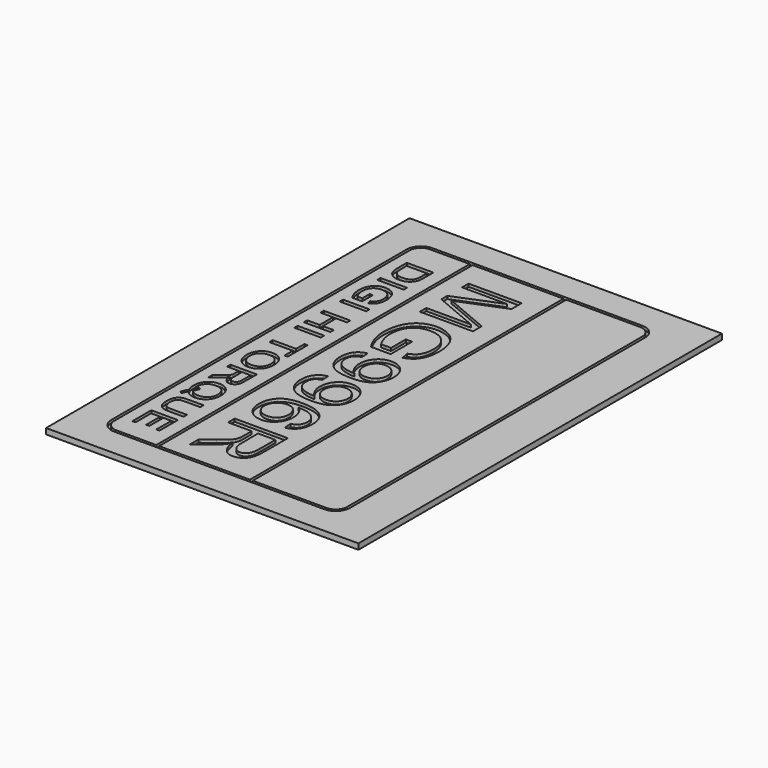
from build123d import *

# Parameters (mm, degrees)
SKETCH016_W             = 16
SKETCH016_H             = 11
PAD011_DEPTH            = 0.2
SKETCH017_W             = 13.8
SKETCH017_H             = 3.2
POCKET004_DEPTH         = 0.1
POCKET005_DEPTH         = 0.1
POCKET006_DEPTH         = 0.1
BODY001_PLACEMENT_ANGLE = 90


with BuildPart() as part:
    # Sketch016 → Pad011 (new body)
    with BuildSketch(Plane.XY):
        with Locations((0, 5.5)):
            Rectangle(SKETCH016_W, SKETCH016_H)
    extrude(amount=PAD011_DEPTH)

    # Sketch017 (on Face6 of Pad011) → Pocket004 (cut)
    with BuildSketch(Plane.XY.offset(0.2)):
        with BuildLine():
            Line((-6.5, 9.5), (6.5, 9.5))
            ThreePointArc((7, 9), (6.853553, 9.353553), (6.5, 9.5))
            Line((7, 9), (7, 1.6))
            ThreePointArc((6.5, 1.1), (6.853553, 1.246447), (7, 1.6))
            Line((6.5, 1.1), (-6.5, 1.1))
            ThreePointArc((-7, 1.6), (-6.853553, 1.246447), (-6.5, 1.1))
            Line((-7, 1.6), (-7, 9))
            ThreePointArc((-6.5, 9.5), (-6.853553, 9.353553), (-7, 9))
        make_face()
        with BuildLine():
            Line((-6.5, 9.4), (6.5, 9.4))
            ThreePointArc((6.9, 9), (6.782843, 9.282843), (6.5, 9.4))
            Line((6.9, 9), (6.9, 6.4))
            Line((6.9, 6.4), (-6.9, 6.4))
            Line((-6.9, 6.4), (-6.9, 9))
            ThreePointArc((-6.5, 9.4), (-6.782843, 9.282843), (-6.9, 9))
        make_face(mode=Mode.SUBTRACT)
        with Locations((0, 4.7)):
            Rectangle(SKETCH017_W, SKETCH017_H, mode=Mode.SUBTRACT)
        with BuildLine():
            Line((-6.9, 3), (6.9, 3))
            Line((6.9, 3), (6.9, 1.6))
            ThreePointArc((6.5, 1.2), (6.782843, 1.317157), (6.9, 1.6))
            Line((6.5, 1.2), (-6.5, 1.2))
            ThreePointArc((-6.9, 1.6), (-6.782843, 1.317157), (-6.5, 1.2))
            Line((-6.9, 1.6), (-6.9, 3))
        make_face(mode=Mode.SUBTRACT)
    extrude(amount=-POCKET004_DEPTH, mode=Mode.SUBTRACT)

    # Clone2D → Pocket005 (cut)
    with BuildSketch(Plane(origin=(-6.2, 3.7, 0.2), x_dir=(1, 0, 0), z_dir=(0, 0, 1))):
        with BuildLine():
            add(Edge.make_bspline(
                [(0.22828, 0), (0.22828, 1.869724)],
                knots=[0, 0, 1.869724, 1.869724], degree=1))
            add(Edge.make_bspline(
                [(0.22828, 1.869724), (0.673427, 1.869724)],
                knots=[0, 0, 0.370955, 0.370955], degree=1))
            add(Edge.make_bspline(
                [(0.673427, 1.869724), (1.206624, 0.547431)],
                knots=[0, 0, 1.394951, 1.394951], degree=1))
            add(Edge.make_bspline(
                [(1.206624, 0.547431), (1.280408, 0.362718), (1.314242, 0.270998)],
                knots=[0, 0, 0, 1, 1, 1], degree=2))
            add(Edge.make_bspline(
                [(1.314242, 0.270998), (1.353376, 0.372909), (1.436433, 0.570361)],
                knots=[0, 0, 0, 1, 1, 1], degree=2))
            add(Edge.make_bspline(
                [(1.436433, 0.570361), (1.986242, 1.869724)],
                knots=[0, 0, 1.377776, 1.377776], degree=1))
            add(Edge.make_bspline(
                [(1.986242, 1.869724), (2.374115, 1.869724)],
                knots=[0, 0, 0.323227, 0.323227], degree=1))
            add(Edge.make_bspline(
                [(2.374115, 1.869724), (2.374115, 0)],
                knots=[0, 0, 1.869724, 1.869724], degree=1))
            add(Edge.make_bspline(
                [(2.374115, 0), (2.087134, 0)],
                knots=[0, 0, 0.239151, 0.239151], degree=1))
            add(Edge.make_bspline(
                [(2.087134, 0), (2.087134, 1.56535)],
                knots=[0, 0, 1.56535, 1.56535], degree=1))
            add(Edge.make_bspline(
                [(2.087134, 1.56535), (1.423389, 0)],
                knots=[0, 0, 1.6602, 1.6602], degree=1))
            add(Edge.make_bspline(
                [(1.423389, 0), (1.164127, 0)],
                knots=[0, 0, 0.216051, 0.216051], degree=1))
            add(Edge.make_bspline(
                [(1.164127, 0), (0.515261, 1.587091)],
                knots=[0, 0, 1.676675, 1.676675], degree=1))
            add(Edge.make_bspline(
                [(0.515261, 1.587091), (0.515261, 0)],
                knots=[0, 0, 1.587091, 1.587091], degree=1))
            add(Edge.make_bspline(
                [(0.515261, 0), (0.22828, 0)],
                knots=[0, 0, 0.239151, 0.239151], degree=1))
        make_face()
        with BuildLine():
            add(Edge.make_bspline(
                [(3.900331, 0.728323), (3.900331, 0.951168)],
                knots=[0, 0, 0.222845, 0.222845], degree=1))
            add(Edge.make_bspline(
                [(3.900331, 0.951168), (4.846064, 0.951168)],
                knots=[0, 0, 0.78811, 0.78811], degree=1))
            add(Edge.make_bspline(
                [(4.846064, 0.951168), (4.846064, 0.258854)],
                knots=[0, 0, 0.692314, 0.692314], degree=1))
            add(Edge.make_bspline(
                [(4.846064, 0.258854), (4.627975, 0.113715), (4.396229, 0.04051)],
                knots=[0, 0, 0, 1, 1, 1], degree=2))
            add(Edge.make_bspline(
                [(4.396229, 0.04051), (4.164484, -0.032611), (3.92051, -0.032611)],
                knots=[0, 0, 0, 1, 1, 1], degree=2))
            add(Edge.make_bspline(
                [(3.92051, -0.032611), (3.591236, -0.032611), (3.322089, 0.085435)],
                knots=[0, 0, 0, 1, 1, 1], degree=2))
            add(Edge.make_bspline(
                [(3.322089, 0.085435), (3.052943, 0.203482), (2.915669, 0.426837)],
                knots=[0, 0, 0, 1, 1, 1], degree=2))
            add(Edge.make_bspline(
                [(2.915669, 0.426837), (2.778497, 0.650276), (2.778497, 0.925945)],
                knots=[0, 0, 0, 1, 1, 1], degree=2))
            add(Edge.make_bspline(
                [(2.778497, 0.925945), (2.778497, 1.199066), (2.914955, 1.435839)],
                knots=[0, 0, 0, 1, 1, 1], degree=2))
            add(Edge.make_bspline(
                [(2.914955, 1.435839), (3.051414, 1.672611), (3.307516, 1.787431)],
                knots=[0, 0, 0, 1, 1, 1], degree=2))
            add(Edge.make_bspline(
                [(3.307516, 1.787431), (3.563618, 1.902335), (3.897478, 1.902335)],
                knots=[0, 0, 0, 1, 1, 1], degree=2))
            add(Edge.make_bspline(
                [(3.897478, 1.902335), (4.139822, 1.902335), (4.335694, 1.836433)],
                knots=[0, 0, 0, 1, 1, 1], degree=2))
            add(Edge.make_bspline(
                [(4.335694, 1.836433), (4.531669, 1.770531), (4.642955, 1.652824)],
                knots=[0, 0, 0, 1, 1, 1], degree=2))
            add(Edge.make_bspline(
                [(4.642955, 1.652824), (4.754242, 1.535117), (4.812127, 1.345732)],
                knots=[0, 0, 0, 1, 1, 1], degree=2))
            add(Edge.make_bspline(
                [(4.812127, 1.345732), (4.541962, 1.284586)],
                knots=[0, 0, 0.233294, 0.233294], degree=1))
            add(Edge.make_bspline(
                [(4.541962, 1.284586), (4.491822, 1.427686), (4.417325, 1.509639)],
                knots=[0, 0, 0, 1, 1, 1], degree=2))
            add(Edge.make_bspline(
                [(4.417325, 1.509639), (4.34293, 1.591677), (4.204637, 1.641019)],
                knots=[0, 0, 0, 1, 1, 1], degree=2))
            add(Edge.make_bspline(
                [(4.204637, 1.641019), (4.066446, 1.690361), (3.897783, 1.690361)],
                knots=[0, 0, 0, 1, 1, 1], degree=2))
            add(Edge.make_bspline(
                [(3.897783, 1.690361), (3.695796, 1.690361), (3.548433, 1.638641)],
                knots=[0, 0, 0, 1, 1, 1], degree=2))
            add(Edge.make_bspline(
                [(3.548433, 1.638641), (3.40107, 1.586921), (3.310675, 1.502675)],
                knots=[0, 0, 0, 1, 1, 1], degree=2))
            add(Edge.make_bspline(
                [(3.310675, 1.502675), (3.22028, 1.418429), (3.17014, 1.317537)],
                knots=[0, 0, 0, 1, 1, 1], degree=2))
            add(Edge.make_bspline(
                [(3.17014, 1.317537), (3.085045, 1.143949), (3.085045, 0.940977)],
                knots=[0, 0, 0, 1, 1, 1], degree=2))
            add(Edge.make_bspline(
                [(3.085045, 0.940977), (3.085045, 0.690701), (3.187567, 0.522123)],
                knots=[0, 0, 0, 1, 1, 1], degree=2))
            add(Edge.make_bspline(
                [(3.187567, 0.522123), (3.290089, 0.353631), (3.486064, 0.271932)],
                knots=[0, 0, 0, 1, 1, 1], degree=2))
            add(Edge.make_bspline(
                [(3.486064, 0.271932), (3.682038, 0.190234), (3.902369, 0.190234)],
                knots=[0, 0, 0, 1, 1, 1], degree=2))
            add(Edge.make_bspline(
                [(3.902369, 0.190234), (4.093758, 0.190234), (4.276076, 0.251635)],
                knots=[0, 0, 0, 1, 1, 1], degree=2))
            add(Edge.make_bspline(
                [(4.276076, 0.251635), (4.458395, 0.313036), (4.552561, 0.382675)],
                knots=[0, 0, 0, 1, 1, 1], degree=2))
            add(Edge.make_bspline(
                [(4.552561, 0.382675), (4.552561, 0.728323)],
                knots=[0, 0, 0.345648, 0.345648], degree=1))
            add(Edge.make_bspline(
                [(4.552561, 0.728323), (3.900331, 0.728323)],
                knots=[0, 0, 0.543524, 0.543524], degree=1))
        make_face()
        with BuildLine():
            add(Edge.make_bspline(
                [(5.211312, 0.429384), (5.478726, 0.44569)],
                knots=[0, 0, 0.223441, 0.223441], degree=1))
            add(Edge.make_bspline(
                [(5.478726, 0.44569), (5.511847, 0.294183), (5.605299, 0.225902)],
                knots=[0, 0, 0, 1, 1, 1], degree=2))
            add(Edge.make_bspline(
                [(5.605299, 0.225902), (5.698854, 0.157622), (5.845096, 0.157622)],
                knots=[0, 0, 0, 1, 1, 1], degree=2))
            add(Edge.make_bspline(
                [(5.845096, 0.157622), (5.970242, 0.157622), (6.066038, 0.2062)],
                knots=[0, 0, 0, 1, 1, 1], degree=2))
            add(Edge.make_bspline(
                [(6.066038, 0.2062), (6.161936, 0.254777), (6.220637, 0.335966)],
                knots=[0, 0, 0, 1, 1, 1], degree=2))
            add(Edge.make_bspline(
                [(6.220637, 0.335966), (6.279338, 0.41724), (6.32, 0.555244)],
                knots=[0, 0, 0, 1, 1, 1], degree=2))
            add(Edge.make_bspline(
                [(6.32, 0.555244), (6.360764, 0.693248), (6.360764, 0.835924)],
                knots=[0, 0, 0, 1, 1, 1], degree=2))
            add(Edge.make_bspline(
                [(6.360764, 0.835924), (6.360764, 0.85121), (6.359236, 0.881783)],
                knots=[0, 0, 0, 1, 1, 1], degree=2))
            add(Edge.make_bspline(
                [(6.359236, 0.881783), (6.277503, 0.772229), (6.135847, 0.704034)],
                knots=[0, 0, 0, 1, 1, 1], degree=2))
            add(Edge.make_bspline(
                [(6.135847, 0.704034), (5.994293, 0.635924), (5.829299, 0.635924)],
                knots=[0, 0, 0, 1, 1, 1], degree=2))
            add(Edge.make_bspline(
                [(5.829299, 0.635924), (5.553732, 0.635924), (5.362955, 0.804416)],
                knots=[0, 0, 0, 1, 1, 1], degree=2))
            add(Edge.make_bspline(
                [(5.362955, 0.804416), (5.172178, 0.972909), (5.172178, 1.248662)],
                knots=[0, 0, 0, 1, 1, 1], degree=2))
            add(Edge.make_bspline(
                [(5.172178, 1.248662), (5.172178, 1.533333), (5.372331, 1.706921)],
                knots=[0, 0, 0, 1, 1, 1], degree=2))
            add(Edge.make_bspline(
                [(5.372331, 1.706921), (5.572586, 1.880594), (5.873936, 1.880594)],
                knots=[0, 0, 0, 1, 1, 1], degree=2))
            add(Edge.make_bspline(
                [(5.873936, 1.880594), (6.091618, 1.880594), (6.272, 1.782166)],
                knots=[0, 0, 0, 1, 1, 1], degree=2))
            add(Edge.make_bspline(
                [(6.272, 1.782166), (6.452484, 1.683737), (6.546038, 1.501656)],
                knots=[0, 0, 0, 1, 1, 1], degree=2))
            add(Edge.make_bspline(
                [(6.546038, 1.501656), (6.639694, 1.319575), (6.639694, 0.974437)],
                knots=[0, 0, 0, 1, 1, 1], degree=2))
            add(Edge.make_bspline(
                [(6.639694, 0.974437), (6.639694, 0.615372), (6.54665, 0.402548)],
                knots=[0, 0, 0, 1, 1, 1], degree=2))
            add(Edge.make_bspline(
                [(6.54665, 0.402548), (6.453707, 0.189724), (6.269962, 0.078556)],
                knots=[0, 0, 0, 1, 1, 1], degree=2))
            add(Edge.make_bspline(
                [(6.269962, 0.078556), (6.086318, -0.032611), (5.839389, -0.032611)],
                knots=[0, 0, 0, 1, 1, 1], degree=2))
            add(Edge.make_bspline(
                [(5.839389, -0.032611), (5.577172, -0.032611), (5.410955, 0.088577)],
                knots=[0, 0, 0, 1, 1, 1], degree=2))
            add(Edge.make_bspline(
                [(5.410955, 0.088577), (5.244841, 0.209851), (5.211312, 0.429384)],
                knots=[0, 0, 0, 1, 1, 1], degree=2))
        make_face()
        with BuildLine():
            add(Edge.make_bspline(
                [(6.333146, 1.259193), (6.333146, 1.457495), (6.209325, 1.573928)],
                knots=[0, 0, 0, 1, 1, 1], degree=2))
            add(Edge.make_bspline(
                [(6.209325, 1.573928), (6.085503, 1.690361), (5.905834, 1.690361)],
                knots=[0, 0, 0, 1, 1, 1], degree=2))
            add(Edge.make_bspline(
                [(5.905834, 1.690361), (5.720051, 1.690361), (5.586344, 1.564926)],
                knots=[0, 0, 0, 1, 1, 1], degree=2))
            add(Edge.make_bspline(
                [(5.586344, 1.564926), (5.452637, 1.439575), (5.452637, 1.24)],
                knots=[0, 0, 0, 1, 1, 1], degree=2))
            add(Edge.make_bspline(
                [(5.452637, 1.24), (5.452637, 1.060892), (5.579516, 0.94896)],
                knots=[0, 0, 0, 1, 1, 1], degree=2))
            add(Edge.make_bspline(
                [(5.579516, 0.94896), (5.706395, 0.837028), (5.898191, 0.837028)],
                knots=[0, 0, 0, 1, 1, 1], degree=2))
            add(Edge.make_bspline(
                [(5.898191, 0.837028), (6.088357, 0.837028), (6.210752, 0.94896)],
                knots=[0, 0, 0, 1, 1, 1], degree=2))
            add(Edge.make_bspline(
                [(6.210752, 0.94896), (6.333146, 1.060892), (6.333146, 1.259193)],
                knots=[0, 0, 0, 1, 1, 1], degree=2))
        make_face(mode=Mode.SUBTRACT)
        with BuildLine():
            add(Edge.make_bspline(
                [(6.952764, 0.429384), (7.220178, 0.44569)],
                knots=[0, 0, 0.223441, 0.223441], degree=1))
            add(Edge.make_bspline(
                [(7.220178, 0.44569), (7.253299, 0.294183), (7.346752, 0.225902)],
                knots=[0, 0, 0, 1, 1, 1], degree=2))
            add(Edge.make_bspline(
                [(7.346752, 0.225902), (7.440306, 0.157622), (7.586548, 0.157622)],
                knots=[0, 0, 0, 1, 1, 1], degree=2))
            add(Edge.make_bspline(
                [(7.586548, 0.157622), (7.711694, 0.157622), (7.80749, 0.2062)],
                knots=[0, 0, 0, 1, 1, 1], degree=2))
            add(Edge.make_bspline(
                [(7.80749, 0.2062), (7.903389, 0.254777), (7.962089, 0.335966)],
                knots=[0, 0, 0, 1, 1, 1], degree=2))
            add(Edge.make_bspline(
                [(7.962089, 0.335966), (8.02079, 0.41724), (8.061452, 0.555244)],
                knots=[0, 0, 0, 1, 1, 1], degree=2))
            add(Edge.make_bspline(
                [(8.061452, 0.555244), (8.102217, 0.693248), (8.102217, 0.835924)],
                knots=[0, 0, 0, 1, 1, 1], degree=2))
            add(Edge.make_bspline(
                [(8.102217, 0.835924), (8.102217, 0.85121), (8.100688, 0.881783)],
                knots=[0, 0, 0, 1, 1, 1], degree=2))
            add(Edge.make_bspline(
                [(8.100688, 0.881783), (8.018955, 0.772229), (7.877299, 0.704034)],
                knots=[0, 0, 0, 1, 1, 1], degree=2))
            add(Edge.make_bspline(
                [(7.877299, 0.704034), (7.735745, 0.635924), (7.570752, 0.635924)],
                knots=[0, 0, 0, 1, 1, 1], degree=2))
            add(Edge.make_bspline(
                [(7.570752, 0.635924), (7.295185, 0.635924), (7.104408, 0.804416)],
                knots=[0, 0, 0, 1, 1, 1], degree=2))
            add(Edge.make_bspline(
                [(7.104408, 0.804416), (6.913631, 0.972909), (6.913631, 1.248662)],
                knots=[0, 0, 0, 1, 1, 1], degree=2))
            add(Edge.make_bspline(
                [(6.913631, 1.248662), (6.913631, 1.533333), (7.113783, 1.706921)],
                knots=[0, 0, 0, 1, 1, 1], degree=2))
            add(Edge.make_bspline(
                [(7.113783, 1.706921), (7.314038, 1.880594), (7.615389, 1.880594)],
                knots=[0, 0, 0, 1, 1, 1], degree=2))
            add(Edge.make_bspline(
                [(7.615389, 1.880594), (7.83307, 1.880594), (8.013452, 1.782166)],
                knots=[0, 0, 0, 1, 1, 1], degree=2))
            add(Edge.make_bspline(
                [(8.013452, 1.782166), (8.193936, 1.683737), (8.28749, 1.501656)],
                knots=[0, 0, 0, 1, 1, 1], degree=2))
            add(Edge.make_bspline(
                [(8.28749, 1.501656), (8.381146, 1.319575), (8.381146, 0.974437)],
                knots=[0, 0, 0, 1, 1, 1], degree=2))
            add(Edge.make_bspline(
                [(8.381146, 0.974437), (8.381146, 0.615372), (8.288102, 0.402548)],
                knots=[0, 0, 0, 1, 1, 1], degree=2))
            add(Edge.make_bspline(
                [(8.288102, 0.402548), (8.195159, 0.189724), (8.011414, 0.078556)],
                knots=[0, 0, 0, 1, 1, 1], degree=2))
            add(Edge.make_bspline(
                [(8.011414, 0.078556), (7.827771, -0.032611), (7.580841, -0.032611)],
                knots=[0, 0, 0, 1, 1, 1], degree=2))
            add(Edge.make_bspline(
                [(7.580841, -0.032611), (7.318624, -0.032611), (7.152408, 0.088577)],
                knots=[0, 0, 0, 1, 1, 1], degree=2))
            add(Edge.make_bspline(
                [(7.152408, 0.088577), (6.986293, 0.209851), (6.952764, 0.429384)],
                knots=[0, 0, 0, 1, 1, 1], degree=2))
        make_face()
        with BuildLine():
            add(Edge.make_bspline(
                [(8.074599, 1.259193), (8.074599, 1.457495), (7.950777, 1.573928)],
                knots=[0, 0, 0, 1, 1, 1], degree=2))
            add(Edge.make_bspline(
                [(7.950777, 1.573928), (7.826955, 1.690361), (7.647287, 1.690361)],
                knots=[0, 0, 0, 1, 1, 1], degree=2))
            add(Edge.make_bspline(
                [(7.647287, 1.690361), (7.461503, 1.690361), (7.327796, 1.564926)],
                knots=[0, 0, 0, 1, 1, 1], degree=2))
            add(Edge.make_bspline(
                [(7.327796, 1.564926), (7.194089, 1.439575), (7.194089, 1.24)],
                knots=[0, 0, 0, 1, 1, 1], degree=2))
            add(Edge.make_bspline(
                [(7.194089, 1.24), (7.194089, 1.060892), (7.320968, 0.94896)],
                knots=[0, 0, 0, 1, 1, 1], degree=2))
            add(Edge.make_bspline(
                [(7.320968, 0.94896), (7.447847, 0.837028), (7.639643, 0.837028)],
                knots=[0, 0, 0, 1, 1, 1], degree=2))
            add(Edge.make_bspline(
                [(7.639643, 0.837028), (7.829809, 0.837028), (7.952204, 0.94896)],
                knots=[0, 0, 0, 1, 1, 1], degree=2))
            add(Edge.make_bspline(
                [(7.952204, 0.94896), (8.074599, 1.060892), (8.074599, 1.259193)],
                knots=[0, 0, 0, 1, 1, 1], degree=2))
        make_face(mode=Mode.SUBTRACT)
        with BuildLine():
            add(Edge.make_bspline(
                [(10.083465, 1.413163), (9.809529, 1.396858)],
                knots=[0, 0, 0.228862, 0.228862], degree=1))
            add(Edge.make_bspline(
                [(9.809529, 1.396858), (9.772841, 1.53155), (9.705478, 1.592527)],
                knots=[0, 0, 0, 1, 1, 1], degree=2))
            add(Edge.make_bspline(
                [(9.705478, 1.592527), (9.593783, 1.690361), (9.430115, 1.690361)],
                knots=[0, 0, 0, 1, 1, 1], degree=2))
            add(Edge.make_bspline(
                [(9.430115, 1.690361), (9.298446, 1.690361), (9.195822, 1.629469)],
                knots=[0, 0, 0, 1, 1, 1], degree=2))
            add(Edge.make_bspline(
                [(9.195822, 1.629469), (9.068943, 1.550913), (8.993936, 1.4)],
                knots=[0, 0, 0, 1, 1, 1], degree=2))
            add(Edge.make_bspline(
                [(8.993936, 1.4), (8.919032, 1.249172), (8.915975, 0.969087)],
                knots=[0, 0, 0, 1, 1, 1], degree=2))
            add(Edge.make_bspline(
                [(8.915975, 0.969087), (9.015338, 1.095202), (9.159134, 1.156348)],
                knots=[0, 0, 0, 1, 1, 1], degree=2))
            add(Edge.make_bspline(
                [(9.159134, 1.156348), (9.30293, 1.217495), (9.460382, 1.217495)],
                knots=[0, 0, 0, 1, 1, 1], degree=2))
            add(Edge.make_bspline(
                [(9.460382, 1.217495), (9.735643, 1.217495), (9.92907, 1.047728)],
                knots=[0, 0, 0, 1, 1, 1], degree=2))
            add(Edge.make_bspline(
                [(9.92907, 1.047728), (10.122599, 0.878047), (10.122599, 0.609087)],
                knots=[0, 0, 0, 1, 1, 1], degree=2))
            add(Edge.make_bspline(
                [(10.122599, 0.609087), (10.122599, 0.432357), (10.031592, 0.28051)],
                knots=[0, 0, 0, 1, 1, 1], degree=2))
            add(Edge.make_bspline(
                [(10.031592, 0.28051), (9.940586, 0.128747), (9.781503, 0.048068)],
                knots=[0, 0, 0, 1, 1, 1], degree=2))
            add(Edge.make_bspline(
                [(9.781503, 0.048068), (9.62242, -0.032611), (9.420535, -0.032611)],
                knots=[0, 0, 0, 1, 1, 1], degree=2))
            add(Edge.make_bspline(
                [(9.420535, -0.032611), (9.076382, -0.032611), (8.85921, 0.178854)],
                knots=[0, 0, 0, 1, 1, 1], degree=2))
            add(Edge.make_bspline(
                [(8.85921, 0.178854), (8.642038, 0.390403), (8.642038, 0.876093)],
                knots=[0, 0, 0, 1, 1, 1], degree=2))
            add(Edge.make_bspline(
                [(8.642038, 0.876093), (8.642038, 1.419193), (8.882242, 1.665902)],
                knots=[0, 0, 0, 1, 1, 1], degree=2))
            add(Edge.make_bspline(
                [(8.882242, 1.665902), (9.091873, 1.880594), (9.44693, 1.880594)],
                knots=[0, 0, 0, 1, 1, 1], degree=2))
            add(Edge.make_bspline(
                [(9.44693, 1.880594), (9.711592, 1.880594), (9.880662, 1.756348)],
                knots=[0, 0, 0, 1, 1, 1], degree=2))
            add(Edge.make_bspline(
                [(9.880662, 1.756348), (10.049834, 1.632187), (10.083465, 1.413163)],
                knots=[0, 0, 0, 1, 1, 1], degree=2))
        make_face()
        with BuildLine():
            add(Edge.make_bspline(
                [(8.961631, 0.609512), (8.961631, 0.490106), (9.02186, 0.380977)],
                knots=[0, 0, 0, 1, 1, 1], degree=2))
            add(Edge.make_bspline(
                [(9.02186, 0.380977), (9.082191, 0.271847), (9.188892, 0.214692)],
                knots=[0, 0, 0, 1, 1, 1], degree=2))
            add(Edge.make_bspline(
                [(9.188892, 0.214692), (9.295592, 0.157622), (9.417885, 0.157622)],
                knots=[0, 0, 0, 1, 1, 1], degree=2))
            add(Edge.make_bspline(
                [(9.417885, 0.157622), (9.595108, 0.157622), (9.718624, 0.275669)],
                knots=[0, 0, 0, 1, 1, 1], degree=2))
            add(Edge.make_bspline(
                [(9.718624, 0.275669), (9.84214, 0.3938), (9.84214, 0.596603)],
                knots=[0, 0, 0, 1, 1, 1], degree=2))
            add(Edge.make_bspline(
                [(9.84214, 0.596603), (9.84214, 0.791762), (9.720153, 0.904034)],
                knots=[0, 0, 0, 1, 1, 1], degree=2))
            add(Edge.make_bspline(
                [(9.720153, 0.904034), (9.598166, 1.016391), (9.407185, 1.016391)],
                knots=[0, 0, 0, 1, 1, 1], degree=2))
            add(Edge.make_bspline(
                [(9.407185, 1.016391), (9.221096, 1.016391), (9.091363, 0.904034)],
                knots=[0, 0, 0, 1, 1, 1], degree=2))
            add(Edge.make_bspline(
                [(9.091363, 0.904034), (8.961631, 0.791762), (8.961631, 0.609512)],
                knots=[0, 0, 0, 1, 1, 1], degree=2))
        make_face(mode=Mode.SUBTRACT)
        with BuildLine():
            add(Edge.make_bspline(
                [(10.520459, 0), (10.520459, 1.869724)],
                knots=[0, 0, 1.869724, 1.869724], degree=1))
            add(Edge.make_bspline(
                [(10.520459, 1.869724), (11.510318, 1.869724)],
                knots=[0, 0, 0.824883, 0.824883], degree=1))
            add(Edge.make_bspline(
                [(11.510318, 1.869724), (11.809631, 1.869724), (11.965452, 1.819448)],
                knots=[0, 0, 0, 1, 1, 1], degree=2))
            add(Edge.make_bspline(
                [(11.965452, 1.819448), (12.121274, 1.769257), (12.21442, 1.642038)],
                knots=[0, 0, 0, 1, 1, 1], degree=2))
            add(Edge.make_bspline(
                [(12.21442, 1.642038), (12.307567, 1.51482), (12.307567, 1.360934)],
                knots=[0, 0, 0, 1, 1, 1], degree=2))
            add(Edge.make_bspline(
                [(12.307567, 1.360934), (12.307567, 1.162463), (12.153274, 1.026327)],
                knots=[0, 0, 0, 1, 1, 1], degree=2))
            add(Edge.make_bspline(
                [(12.153274, 1.026327), (11.999083, 0.890191), (11.676841, 0.853333)],
                knots=[0, 0, 0, 1, 1, 1], degree=2))
            add(Edge.make_bspline(
                [(11.676841, 0.853333), (11.794344, 0.805945), (11.855389, 0.759915)],
                knots=[0, 0, 0, 1, 1, 1], degree=2))
            add(Edge.make_bspline(
                [(11.855389, 0.759915), (11.985121, 0.660042), (12.100586, 0.510488)],
                knots=[0, 0, 0, 1, 1, 1], degree=2))
            add(Edge.make_bspline(
                [(12.100586, 0.510488), (12.488153, 0)],
                knots=[0, 0, 0.604077, 0.604077], degree=1))
            add(Edge.make_bspline(
                [(12.488153, 0), (12.118217, 0)],
                knots=[0, 0, 0.30828, 0.30828], degree=1))
            add(Edge.make_bspline(
                [(12.118217, 0), (11.821962, 0.390234)],
                knots=[0, 0, 0.46177, 0.46177], degree=1))
            add(Edge.make_bspline(
                [(11.821962, 0.390234), (11.692127, 0.559066), (11.608051, 0.648577)],
                knots=[0, 0, 0, 1, 1, 1], degree=2))
            add(Edge.make_bspline(
                [(11.608051, 0.648577), (11.524076, 0.738174), (11.457631, 0.773503)],
                knots=[0, 0, 0, 1, 1, 1], degree=2))
            add(Edge.make_bspline(
                [(11.457631, 0.773503), (11.391185, 0.808832), (11.322497, 0.82276)],
                knots=[0, 0, 0, 1, 1, 1], degree=2))
            add(Edge.make_bspline(
                [(11.322497, 0.82276), (11.272153, 0.831592), (11.157605, 0.831592)],
                knots=[0, 0, 0, 1, 1, 1], degree=2))
            add(Edge.make_bspline(
                [(11.157605, 0.831592), (10.813962, 0.831592)],
                knots=[0, 0, 0.286369, 0.286369], degree=1))
            add(Edge.make_bspline(
                [(10.813962, 0.831592), (10.813962, 0)],
                knots=[0, 0, 0.831592, 0.831592], degree=1))
            add(Edge.make_bspline(
                [(10.813962, 0), (10.520459, 0)],
                knots=[0, 0, 0.244586, 0.244586], degree=1))
        make_face()
        with BuildLine():
            add(Edge.make_bspline(
                [(10.813962, 1.054437), (11.450803, 1.054437)],
                knots=[0, 0, 0.530701, 0.530701], degree=1))
            add(Edge.make_bspline(
                [(11.450803, 1.054437), (11.653911, 1.054437), (11.768051, 1.088917)],
                knots=[0, 0, 0, 1, 1, 1], degree=2))
            add(Edge.make_bspline(
                [(11.768051, 1.088917), (11.882293, 1.123482), (11.941605, 1.199406)],
                knots=[0, 0, 0, 1, 1, 1], degree=2))
            add(Edge.make_bspline(
                [(11.941605, 1.199406), (12.001019, 1.275329), (12.001019, 1.364501)],
                knots=[0, 0, 0, 1, 1, 1], degree=2))
            add(Edge.make_bspline(
                [(12.001019, 1.364501), (12.001019, 1.495032), (11.885962, 1.579108)],
                knots=[0, 0, 0, 1, 1, 1], degree=2))
            add(Edge.make_bspline(
                [(11.885962, 1.579108), (11.770904, 1.663185), (11.522548, 1.663185)],
                knots=[0, 0, 0, 1, 1, 1], degree=2))
            add(Edge.make_bspline(
                [(11.522548, 1.663185), (10.813962, 1.663185)],
                knots=[0, 0, 0.590488, 0.590488], degree=1))
            add(Edge.make_bspline(
                [(10.813962, 1.663185), (10.813962, 1.054437)],
                knots=[0, 0, 0.608747, 0.608747], degree=1))
        make_face(mode=Mode.SUBTRACT)
    extrude(amount=-POCKET005_DEPTH, mode=Mode.SUBTRACT)

    # Clone2D001 → Pocket006 (cut)
    with BuildSketch(Plane.XY.offset(0.2)):
        with BuildLine():
            add(Edge.make_bspline(
                [(-5.879338, 1.6), (-5.879338, 2.534862)],
                knots=[0, 0, 0.934862, 0.934862], degree=1))
            add(Edge.make_bspline(
                [(-5.879338, 2.534862), (-5.493452, 2.534862)],
                knots=[0, 0, 0.321571, 0.321571], degree=1))
            add(Edge.make_bspline(
                [(-5.493452, 2.534862), (-5.362752, 2.534862), (-5.294013, 2.521486)],
                knots=[0, 0, 0, 1, 1, 1], degree=2))
            add(Edge.make_bspline(
                [(-5.294013, 2.521486), (-5.197707, 2.502972), (-5.129682, 2.454522)],
                knots=[0, 0, 0, 1, 1, 1], degree=2))
            add(Edge.make_bspline(
                [(-5.129682, 2.454522), (-5.04107, 2.392017), (-4.997146, 2.294777)],
                knots=[0, 0, 0, 1, 1, 1], degree=2))
            add(Edge.make_bspline(
                [(-4.997146, 2.294777), (-4.953172, 2.197537), (-4.953172, 2.072527)],
                knots=[0, 0, 0, 1, 1, 1], degree=2))
            add(Edge.make_bspline(
                [(-4.953172, 2.072527), (-4.953172, 1.96603), (-4.982981, 1.883779)],
                knots=[0, 0, 0, 1, 1, 1], degree=2))
            add(Edge.make_bspline(
                [(-4.982981, 1.883779), (-5.01279, 1.801529), (-5.059414, 1.747643)],
                knots=[0, 0, 0, 1, 1, 1], degree=2))
            add(Edge.make_bspline(
                [(-5.059414, 1.747643), (-5.105987, 1.693758), (-5.161427, 1.662803)],
                knots=[0, 0, 0, 1, 1, 1], degree=2))
            add(Edge.make_bspline(
                [(-5.161427, 1.662803), (-5.216815, 1.63189), (-5.295134, 1.615924)],
                knots=[0, 0, 0, 1, 1, 1], degree=2))
            add(Edge.make_bspline(
                [(-5.295134, 1.615924), (-5.373452, 1.6), (-5.475108, 1.6)],
                knots=[0, 0, 0, 1, 1, 1], degree=2))
            add(Edge.make_bspline(
                [(-5.475108, 1.6), (-5.879338, 1.6)],
                knots=[0, 0, 0.336858, 0.336858], degree=1))
        make_face()
        with BuildLine():
            add(Edge.make_bspline(
                [(-5.732586, 1.711423), (-5.492994, 1.711423)],
                knots=[0, 0, 0.19966, 0.19966], degree=1))
            add(Edge.make_bspline(
                [(-5.492994, 1.711423), (-5.382013, 1.711423), (-5.318879, 1.728577)],
                knots=[0, 0, 0, 1, 1, 1], degree=2))
            add(Edge.make_bspline(
                [(-5.318879, 1.728577), (-5.255694, 1.745732), (-5.218191, 1.7769)],
                knots=[0, 0, 0, 1, 1, 1], degree=2))
            add(Edge.make_bspline(
                [(-5.218191, 1.7769), (-5.165401, 1.820764), (-5.135949, 1.89482)],
                knots=[0, 0, 0, 1, 1, 1], degree=2))
            add(Edge.make_bspline(
                [(-5.135949, 1.89482), (-5.106446, 1.968875), (-5.106446, 2.074437)],
                knots=[0, 0, 0, 1, 1, 1], degree=2))
            add(Edge.make_bspline(
                [(-5.106446, 2.074437), (-5.106446, 2.220637), (-5.164229, 2.299151)],
                knots=[0, 0, 0, 1, 1, 1], degree=2))
            add(Edge.make_bspline(
                [(-5.164229, 2.299151), (-5.222013, 2.377665), (-5.304713, 2.404374)],
                knots=[0, 0, 0, 1, 1, 1], degree=2))
            add(Edge.make_bspline(
                [(-5.304713, 2.404374), (-5.364382, 2.423439), (-5.496815, 2.423439)],
                knots=[0, 0, 0, 1, 1, 1], degree=2))
            add(Edge.make_bspline(
                [(-5.496815, 2.423439), (-5.732586, 2.423439)],
                knots=[0, 0, 0.196476, 0.196476], degree=1))
            add(Edge.make_bspline(
                [(-5.732586, 2.423439), (-5.732586, 1.711423)],
                knots=[0, 0, 0.712017, 0.712017], degree=1))
        make_face(mode=Mode.SUBTRACT)
        with BuildLine():
            add(Edge.make_bspline(
                [(-4.721631, 1.6), (-4.721631, 2.534862)],
                knots=[0, 0, 0.934862, 0.934862], degree=1))
            add(Edge.make_bspline(
                [(-4.721631, 2.534862), (-4.574879, 2.534862)],
                knots=[0, 0, 0.122293, 0.122293], degree=1))
            add(Edge.make_bspline(
                [(-4.574879, 2.534862), (-4.574879, 1.6)],
                knots=[0, 0, 0.934862, 0.934862], degree=1))
            add(Edge.make_bspline(
                [(-4.574879, 1.6), (-4.721631, 1.6)],
                knots=[0, 0, 0.122293, 0.122293], degree=1))
        make_face()
        with BuildLine():
            add(Edge.make_bspline(
                [(-3.788943, 1.964161), (-3.788943, 2.075584)],
                knots=[0, 0, 0.111423, 0.111423], degree=1))
            add(Edge.make_bspline(
                [(-3.788943, 2.075584), (-3.316076, 2.075584)],
                knots=[0, 0, 0.394055, 0.394055], degree=1))
            add(Edge.make_bspline(
                [(-3.316076, 2.075584), (-3.316076, 1.729427)],
                knots=[0, 0, 0.346157, 0.346157], degree=1))
            add(Edge.make_bspline(
                [(-3.316076, 1.729427), (-3.425121, 1.656858), (-3.540994, 1.620255)],
                knots=[0, 0, 0, 1, 1, 1], degree=2))
            add(Edge.make_bspline(
                [(-3.540994, 1.620255), (-3.656866, 1.583694), (-3.778854, 1.583694)],
                knots=[0, 0, 0, 1, 1, 1], degree=2))
            add(Edge.make_bspline(
                [(-3.778854, 1.583694), (-3.94349, 1.583694), (-4.078064, 1.642718)],
                knots=[0, 0, 0, 1, 1, 1], degree=2))
            add(Edge.make_bspline(
                [(-4.078064, 1.642718), (-4.212637, 1.701741), (-4.281274, 1.813418)],
                knots=[0, 0, 0, 1, 1, 1], degree=2))
            add(Edge.make_bspline(
                [(-4.281274, 1.813418), (-4.34986, 1.925138), (-4.34986, 2.062972)],
                knots=[0, 0, 0, 1, 1, 1], degree=2))
            add(Edge.make_bspline(
                [(-4.34986, 2.062972), (-4.34986, 2.199533), (-4.281631, 2.317919)],
                knots=[0, 0, 0, 1, 1, 1], degree=2))
            add(Edge.make_bspline(
                [(-4.281631, 2.317919), (-4.213401, 2.436306), (-4.08535, 2.493715)],
                knots=[0, 0, 0, 1, 1, 1], degree=2))
            add(Edge.make_bspline(
                [(-4.08535, 2.493715), (-3.957299, 2.551168), (-3.790369, 2.551168)],
                knots=[0, 0, 0, 1, 1, 1], degree=2))
            add(Edge.make_bspline(
                [(-3.790369, 2.551168), (-3.669197, 2.551168), (-3.571261, 2.518217)],
                knots=[0, 0, 0, 1, 1, 1], degree=2))
            add(Edge.make_bspline(
                [(-3.571261, 2.518217), (-3.473274, 2.485265), (-3.417631, 2.426412)],
                knots=[0, 0, 0, 1, 1, 1], degree=2))
            add(Edge.make_bspline(
                [(-3.417631, 2.426412), (-3.361987, 2.367558), (-3.333045, 2.272866)],
                knots=[0, 0, 0, 1, 1, 1], degree=2))
            add(Edge.make_bspline(
                [(-3.333045, 2.272866), (-3.468127, 2.242293)],
                knots=[0, 0, 0.116647, 0.116647], degree=1))
            add(Edge.make_bspline(
                [(-3.468127, 2.242293), (-3.493197, 2.313843), (-3.530446, 2.35482)],
                knots=[0, 0, 0, 1, 1, 1], degree=2))
            add(Edge.make_bspline(
                [(-3.530446, 2.35482), (-3.567643, 2.395839), (-3.63679, 2.42051)],
                knots=[0, 0, 0, 1, 1, 1], degree=2))
            add(Edge.make_bspline(
                [(-3.63679, 2.42051), (-3.705885, 2.44518), (-3.790217, 2.44518)],
                knots=[0, 0, 0, 1, 1, 1], degree=2))
            add(Edge.make_bspline(
                [(-3.790217, 2.44518), (-3.89121, 2.44518), (-3.964892, 2.419321)],
                knots=[0, 0, 0, 1, 1, 1], degree=2))
            add(Edge.make_bspline(
                [(-3.964892, 2.419321), (-4.038573, 2.393461), (-4.083771, 2.351338)],
                knots=[0, 0, 0, 1, 1, 1], degree=2))
            add(Edge.make_bspline(
                [(-4.083771, 2.351338), (-4.128968, 2.309214), (-4.154038, 2.258769)],
                knots=[0, 0, 0, 1, 1, 1], degree=2))
            add(Edge.make_bspline(
                [(-4.154038, 2.258769), (-4.196586, 2.171975), (-4.196586, 2.070488)],
                knots=[0, 0, 0, 1, 1, 1], degree=2))
            add(Edge.make_bspline(
                [(-4.196586, 2.070488), (-4.196586, 1.94535), (-4.145325, 1.861062)],
                knots=[0, 0, 0, 1, 1, 1], degree=2))
            add(Edge.make_bspline(
                [(-4.145325, 1.861062), (-4.094064, 1.776815), (-3.996076, 1.735966)],
                knots=[0, 0, 0, 1, 1, 1], degree=2))
            add(Edge.make_bspline(
                [(-3.996076, 1.735966), (-3.898089, 1.695117), (-3.787924, 1.695117)],
                knots=[0, 0, 0, 1, 1, 1], degree=2))
            add(Edge.make_bspline(
                [(-3.787924, 1.695117), (-3.692229, 1.695117), (-3.60107, 1.725817)],
                knots=[0, 0, 0, 1, 1, 1], degree=2))
            add(Edge.make_bspline(
                [(-3.60107, 1.725817), (-3.509911, 1.756518), (-3.462828, 1.791338)],
                knots=[0, 0, 0, 1, 1, 1], degree=2))
            add(Edge.make_bspline(
                [(-3.462828, 1.791338), (-3.462828, 1.964161)],
                knots=[0, 0, 0.172824, 0.172824], degree=1))
            add(Edge.make_bspline(
                [(-3.462828, 1.964161), (-3.788943, 1.964161)],
                knots=[0, 0, 0.271762, 0.271762], degree=1))
        make_face()
        with BuildLine():
            add(Edge.make_bspline(
                [(-3.07149, 1.6), (-3.07149, 2.534862)],
                knots=[0, 0, 0.934862, 0.934862], degree=1))
            add(Edge.make_bspline(
                [(-3.07149, 2.534862), (-2.924739, 2.534862)],
                knots=[0, 0, 0.122293, 0.122293], degree=1))
            add(Edge.make_bspline(
                [(-2.924739, 2.534862), (-2.924739, 1.6)],
                knots=[0, 0, 0.934862, 0.934862], degree=1))
            add(Edge.make_bspline(
                [(-2.924739, 1.6), (-3.07149, 1.6)],
                knots=[0, 0, 0.122293, 0.122293], degree=1))
        make_face()
        with BuildLine():
            add(Edge.make_bspline(
                [(-2.223592, 1.6), (-2.223592, 2.534862)],
                knots=[0, 0, 0.934862, 0.934862], degree=1))
            add(Edge.make_bspline(
                [(-2.223592, 2.534862), (-2.076841, 2.534862)],
                knots=[0, 0, 0.122293, 0.122293], degree=1))
            add(Edge.make_bspline(
                [(-2.076841, 2.534862), (-2.076841, 2.151677)],
                knots=[0, 0, 0.383185, 0.383185], degree=1))
            add(Edge.make_bspline(
                [(-2.076841, 2.151677), (-1.493096, 2.151677)],
                knots=[0, 0, 0.486454, 0.486454], degree=1))
            add(Edge.make_bspline(
                [(-1.493096, 2.151677), (-1.493096, 2.534862)],
                knots=[0, 0, 0.383185, 0.383185], degree=1))
            add(Edge.make_bspline(
                [(-1.493096, 2.534862), (-1.346344, 2.534862)],
                knots=[0, 0, 0.122293, 0.122293], degree=1))
            add(Edge.make_bspline(
                [(-1.346344, 2.534862), (-1.346344, 1.6)],
                knots=[0, 0, 0.934862, 0.934862], degree=1))
            add(Edge.make_bspline(
                [(-1.346344, 1.6), (-1.493096, 1.6)],
                knots=[0, 0, 0.122293, 0.122293], degree=1))
            add(Edge.make_bspline(
                [(-1.493096, 1.6), (-1.493096, 2.040255)],
                knots=[0, 0, 0.440255, 0.440255], degree=1))
            add(Edge.make_bspline(
                [(-1.493096, 2.040255), (-2.076841, 2.040255)],
                knots=[0, 0, 0.486454, 0.486454], degree=1))
            add(Edge.make_bspline(
                [(-2.076841, 2.040255), (-2.076841, 1.6)],
                knots=[0, 0, 0.440255, 0.440255], degree=1))
            add(Edge.make_bspline(
                [(-2.076841, 1.6), (-2.223592, 1.6)],
                knots=[0, 0, 0.122293, 0.122293], degree=1))
        make_face()
        with BuildLine():
            add(Edge.make_bspline(
                [(-1.072408, 1.6), (-1.072408, 2.534862)],
                knots=[0, 0, 0.934862, 0.934862], degree=1))
            add(Edge.make_bspline(
                [(-1.072408, 2.534862), (-0.925656, 2.534862)],
                knots=[0, 0, 0.122293, 0.122293], degree=1))
            add(Edge.make_bspline(
                [(-0.925656, 2.534862), (-0.925656, 1.6)],
                knots=[0, 0, 0.934862, 0.934862], degree=1))
            add(Edge.make_bspline(
                [(-0.925656, 1.6), (-1.072408, 1.6)],
                knots=[0, 0, 0.122293, 0.122293], degree=1))
        make_face()
        with BuildLine():
            add(Edge.make_bspline(
                [(0.023338, 1.6), (0.023338, 2.423439)],
                knots=[0, 0, 0.823439, 0.823439], degree=1))
            add(Edge.make_bspline(
                [(0.023338, 2.423439), (-0.345172, 2.423439)],
                knots=[0, 0, 0.307091, 0.307091], degree=1))
            add(Edge.make_bspline(
                [(-0.345172, 2.423439), (-0.345172, 2.534862)],
                knots=[0, 0, 0.111423, 0.111423], degree=1))
            add(Edge.make_bspline(
                [(-0.345172, 2.534862), (0.538599, 2.534862)],
                knots=[0, 0, 0.736476, 0.736476], degree=1))
            add(Edge.make_bspline(
                [(0.538599, 2.534862), (0.538599, 2.423439)],
                knots=[0, 0, 0.111423, 0.111423], degree=1))
            add(Edge.make_bspline(
                [(0.538599, 2.423439), (0.170089, 2.423439)],
                knots=[0, 0, 0.307091, 0.307091], degree=1))
            add(Edge.make_bspline(
                [(0.170089, 2.423439), (0.170089, 1.6)],
                knots=[0, 0, 0.823439, 0.823439], degree=1))
            add(Edge.make_bspline(
                [(0.170089, 1.6), (0.023338, 1.6)],
                knots=[0, 0, 0.122293, 0.122293], degree=1))
        make_face()
        with BuildLine():
            add(Edge.make_bspline(
                [(0.616866, 2.054989), (0.616866, 2.287771), (0.766828, 2.419448)],
                knots=[0, 0, 0, 1, 1, 1], degree=2))
            add(Edge.make_bspline(
                [(0.766828, 2.419448), (0.916841, 2.551168), (1.154089, 2.551168)],
                knots=[0, 0, 0, 1, 1, 1], degree=2))
            add(Edge.make_bspline(
                [(1.154089, 2.551168), (1.309452, 2.551168), (1.434191, 2.489299)],
                knots=[0, 0, 0, 1, 1, 1], degree=2))
            add(Edge.make_bspline(
                [(1.434191, 2.489299), (1.55893, 2.427431), (1.624357, 2.316773)],
                knots=[0, 0, 0, 1, 1, 1], degree=2))
            add(Edge.make_bspline(
                [(1.624357, 2.316773), (1.689783, 2.206157), (1.689783, 2.065817)],
                knots=[0, 0, 0, 1, 1, 1], degree=2))
            add(Edge.make_bspline(
                [(1.689783, 2.065817), (1.689783, 1.923609), (1.620892, 1.811338)],
                knots=[0, 0, 0, 1, 1, 1], degree=2))
            add(Edge.make_bspline(
                [(1.620892, 1.811338), (1.552051, 1.699108), (1.425783, 1.641401)],
                knots=[0, 0, 0, 1, 1, 1], degree=2))
            add(Edge.make_bspline(
                [(1.425783, 1.641401), (1.299516, 1.583694), (1.153325, 1.583694)],
                knots=[0, 0, 0, 1, 1, 1], degree=2))
            add(Edge.make_bspline(
                [(1.153325, 1.583694), (0.994904, 1.583694), (0.870166, 1.647473)],
                knots=[0, 0, 0, 1, 1, 1], degree=2))
            add(Edge.make_bspline(
                [(0.870166, 1.647473), (0.745427, 1.711253), (0.681121, 1.821571)],
                knots=[0, 0, 0, 1, 1, 1], degree=2))
            add(Edge.make_bspline(
                [(0.681121, 1.821571), (0.616866, 1.93189), (0.616866, 2.054989)],
                knots=[0, 0, 0, 1, 1, 1], degree=2))
        make_face()
        with BuildLine():
            add(Edge.make_bspline(
                [(0.77014, 2.053376), (0.77014, 1.884289), (0.879134, 1.786964)],
                knots=[0, 0, 0, 1, 1, 1], degree=2))
            add(Edge.make_bspline(
                [(0.879134, 1.786964), (0.988127, 1.689682), (1.152561, 1.689682)],
                knots=[0, 0, 0, 1, 1, 1], degree=2))
            add(Edge.make_bspline(
                [(1.152561, 1.689682), (1.320051, 1.689682), (1.42828, 1.787941)],
                knots=[0, 0, 0, 1, 1, 1], degree=2))
            add(Edge.make_bspline(
                [(1.42828, 1.787941), (1.53651, 1.8862), (1.53651, 2.066794)],
                knots=[0, 0, 0, 1, 1, 1], degree=2))
            add(Edge.make_bspline(
                [(1.53651, 2.066794), (1.53651, 2.181019), (1.490242, 2.2662)],
                knots=[0, 0, 0, 1, 1, 1], degree=2))
            add(Edge.make_bspline(
                [(1.490242, 2.2662), (1.443975, 2.35138), (1.354854, 2.398259)],
                knots=[0, 0, 0, 1, 1, 1], degree=2))
            add(Edge.make_bspline(
                [(1.354854, 2.398259), (1.265732, 2.44518), (1.154854, 2.44518)],
                knots=[0, 0, 0, 1, 1, 1], degree=2))
            add(Edge.make_bspline(
                [(1.154854, 2.44518), (0.997299, 2.44518), (0.88372, 2.354862)],
                knots=[0, 0, 0, 1, 1, 1], degree=2))
            add(Edge.make_bspline(
                [(0.88372, 2.354862), (0.77014, 2.264586), (0.77014, 2.053376)],
                knots=[0, 0, 0, 1, 1, 1], degree=2))
        make_face(mode=Mode.SUBTRACT)
        with BuildLine():
            add(Edge.make_bspline(
                [(1.888713, 1.6), (1.888713, 2.534862)],
                knots=[0, 0, 0.934862, 0.934862], degree=1))
            add(Edge.make_bspline(
                [(1.888713, 2.534862), (2.383643, 2.534862)],
                knots=[0, 0, 0.412442, 0.412442], degree=1))
            add(Edge.make_bspline(
                [(2.383643, 2.534862), (2.533299, 2.534862), (2.61121, 2.509724)],
                knots=[0, 0, 0, 1, 1, 1], degree=2))
            add(Edge.make_bspline(
                [(2.61121, 2.509724), (2.689121, 2.484628), (2.735694, 2.421019)],
                knots=[0, 0, 0, 1, 1, 1], degree=2))
            add(Edge.make_bspline(
                [(2.735694, 2.421019), (2.782268, 2.35741), (2.782268, 2.280467)],
                knots=[0, 0, 0, 1, 1, 1], degree=2))
            add(Edge.make_bspline(
                [(2.782268, 2.280467), (2.782268, 2.181231), (2.705121, 2.113163)],
                knots=[0, 0, 0, 1, 1, 1], degree=2))
            add(Edge.make_bspline(
                [(2.705121, 2.113163), (2.628025, 2.045096), (2.466904, 2.026667)],
                knots=[0, 0, 0, 1, 1, 1], degree=2))
            add(Edge.make_bspline(
                [(2.466904, 2.026667), (2.525656, 2.002972), (2.556178, 1.979958)],
                knots=[0, 0, 0, 1, 1, 1], degree=2))
            add(Edge.make_bspline(
                [(2.556178, 1.979958), (2.621045, 1.930021), (2.678777, 1.855244)],
                knots=[0, 0, 0, 1, 1, 1], degree=2))
            add(Edge.make_bspline(
                [(2.678777, 1.855244), (2.872561, 1.6)],
                knots=[0, 0, 0.302039, 0.302039], degree=1))
            add(Edge.make_bspline(
                [(2.872561, 1.6), (2.687592, 1.6)],
                knots=[0, 0, 0.15414, 0.15414], degree=1))
            add(Edge.make_bspline(
                [(2.687592, 1.6), (2.539465, 1.795117)],
                knots=[0, 0, 0.230885, 0.230885], degree=1))
            add(Edge.make_bspline(
                [(2.539465, 1.795117), (2.474548, 1.879533), (2.43251, 1.924289)],
                knots=[0, 0, 0, 1, 1, 1], degree=2))
            add(Edge.make_bspline(
                [(2.43251, 1.924289), (2.390522, 1.969087), (2.357299, 1.986752)],
                knots=[0, 0, 0, 1, 1, 1], degree=2))
            add(Edge.make_bspline(
                [(2.357299, 1.986752), (2.324076, 2.004416), (2.289732, 2.01138)],
                knots=[0, 0, 0, 1, 1, 1], degree=2))
            add(Edge.make_bspline(
                [(2.289732, 2.01138), (2.264561, 2.015796), (2.207287, 2.015796)],
                knots=[0, 0, 0, 1, 1, 1], degree=2))
            add(Edge.make_bspline(
                [(2.207287, 2.015796), (2.035465, 2.015796)],
                knots=[0, 0, 0.143185, 0.143185], degree=1))
            add(Edge.make_bspline(
                [(2.035465, 2.015796), (2.035465, 1.6)],
                knots=[0, 0, 0.415796, 0.415796], degree=1))
            add(Edge.make_bspline(
                [(2.035465, 1.6), (1.888713, 1.6)],
                knots=[0, 0, 0.122293, 0.122293], degree=1))
        make_face()
        with BuildLine():
            add(Edge.make_bspline(
                [(2.035465, 2.127219), (2.353885, 2.127219)],
                knots=[0, 0, 0.26535, 0.26535], degree=1))
            add(Edge.make_bspline(
                [(2.353885, 2.127219), (2.455439, 2.127219), (2.51251, 2.144459)],
                knots=[0, 0, 0, 1, 1, 1], degree=2))
            add(Edge.make_bspline(
                [(2.51251, 2.144459), (2.569631, 2.161741), (2.599287, 2.199703)],
                knots=[0, 0, 0, 1, 1, 1], degree=2))
            add(Edge.make_bspline(
                [(2.599287, 2.199703), (2.628994, 2.237665), (2.628994, 2.282251)],
                knots=[0, 0, 0, 1, 1, 1], degree=2))
            add(Edge.make_bspline(
                [(2.628994, 2.282251), (2.628994, 2.347516), (2.571465, 2.389554)],
                knots=[0, 0, 0, 1, 1, 1], degree=2))
            add(Edge.make_bspline(
                [(2.571465, 2.389554), (2.513936, 2.431592), (2.389758, 2.431592)],
                knots=[0, 0, 0, 1, 1, 1], degree=2))
            add(Edge.make_bspline(
                [(2.389758, 2.431592), (2.035465, 2.431592)],
                knots=[0, 0, 0.295244, 0.295244], degree=1))
            add(Edge.make_bspline(
                [(2.035465, 2.431592), (2.035465, 2.127219)],
                knots=[0, 0, 0.304374, 0.304374], degree=1))
        make_face(mode=Mode.SUBTRACT)
        with BuildLine():
            add(Edge.make_bspline(
                [(3.858803, 1.699873), (3.962904, 1.640467), (4.050854, 1.612994)],
                knots=[0, 0, 0, 1, 1, 1], degree=2))
            add(Edge.make_bspline(
                [(4.050854, 1.612994), (4.005809, 1.527006)],
                knots=[0, 0, 0.093823, 0.093823], degree=1))
            add(Edge.make_bspline(
                [(4.005809, 1.527006), (3.885299, 1.563439), (3.765554, 1.642123)],
                knots=[0, 0, 0, 1, 1, 1], degree=2))
            add(Edge.make_bspline(
                [(3.765554, 1.642123), (3.641682, 1.583694), (3.492025, 1.583694)],
                knots=[0, 0, 0, 1, 1, 1], degree=2))
            add(Edge.make_bspline(
                [(3.492025, 1.583694), (3.34079, 1.583694), (3.217682, 1.644926)],
                knots=[0, 0, 0, 1, 1, 1], degree=2))
            add(Edge.make_bspline(
                [(3.217682, 1.644926), (3.094624, 1.706157), (3.028127, 1.817113)],
                knots=[0, 0, 0, 1, 1, 1], degree=2))
            add(Edge.make_bspline(
                [(3.028127, 1.817113), (2.961631, 1.928068), (2.961631, 2.067091)],
                knots=[0, 0, 0, 1, 1, 1], degree=2))
            add(Edge.make_bspline(
                [(2.961631, 2.067091), (2.961631, 2.20552), (3.028535, 2.319023)],
                knots=[0, 0, 0, 1, 1, 1], degree=2))
            add(Edge.make_bspline(
                [(3.028535, 2.319023), (3.09549, 2.432527), (3.219108, 2.491847)],
                knots=[0, 0, 0, 1, 1, 1], degree=2))
            add(Edge.make_bspline(
                [(3.219108, 2.491847), (3.342726, 2.551168), (3.495592, 2.551168)],
                knots=[0, 0, 0, 1, 1, 1], degree=2))
            add(Edge.make_bspline(
                [(3.495592, 2.551168), (3.649987, 2.551168), (3.773962, 2.489639)],
                knots=[0, 0, 0, 1, 1, 1], degree=2))
            add(Edge.make_bspline(
                [(3.773962, 2.489639), (3.897936, 2.42811), (3.962955, 2.317452)],
                knots=[0, 0, 0, 1, 1, 1], degree=2))
            add(Edge.make_bspline(
                [(3.962955, 2.317452), (4.028025, 2.206837), (4.028025, 2.067813)],
                knots=[0, 0, 0, 1, 1, 1], degree=2))
            add(Edge.make_bspline(
                [(4.028025, 2.067813), (4.028025, 1.952399), (3.985885, 1.860255)],
                knots=[0, 0, 0, 1, 1, 1], degree=2))
            add(Edge.make_bspline(
                [(3.985885, 1.860255), (3.943796, 1.76811), (3.858803, 1.699873)],
                knots=[0, 0, 0, 1, 1, 1], degree=2))
        make_face()
        with BuildLine():
            add(Edge.make_bspline(
                [(3.535032, 1.857962), (3.66242, 1.828025), (3.74507, 1.76879)],
                knots=[0, 0, 0, 1, 1, 1], degree=2))
            add(Edge.make_bspline(
                [(3.74507, 1.76879), (3.874752, 1.868323), (3.874752, 2.068068)],
                knots=[0, 0, 0, 1, 1, 1], degree=2))
            add(Edge.make_bspline(
                [(3.874752, 2.068068), (3.874752, 2.181656), (3.828841, 2.266497)],
                knots=[0, 0, 0, 1, 1, 1], degree=2))
            add(Edge.make_bspline(
                [(3.828841, 2.266497), (3.782981, 2.35138), (3.694624, 2.398259)],
                knots=[0, 0, 0, 1, 1, 1], degree=2))
            add(Edge.make_bspline(
                [(3.694624, 2.398259), (3.606318, 2.44518), (3.496357, 2.44518)],
                knots=[0, 0, 0, 1, 1, 1], degree=2))
            add(Edge.make_bspline(
                [(3.496357, 2.44518), (3.331771, 2.44518), (3.223338, 2.350403)],
                knots=[0, 0, 0, 1, 1, 1], degree=2))
            add(Edge.make_bspline(
                [(3.223338, 2.350403), (3.114904, 2.255669), (3.114904, 2.067431)],
                knots=[0, 0, 0, 1, 1, 1], degree=2))
            add(Edge.make_bspline(
                [(3.114904, 2.067431), (3.114904, 1.884926), (3.222217, 1.787304)],
                knots=[0, 0, 0, 1, 1, 1], degree=2))
            add(Edge.make_bspline(
                [(3.222217, 1.787304), (3.329529, 1.689682), (3.496357, 1.689682)],
                knots=[0, 0, 0, 1, 1, 1], degree=2))
            add(Edge.make_bspline(
                [(3.496357, 1.689682), (3.575236, 1.689682), (3.644994, 1.714565)],
                knots=[0, 0, 0, 1, 1, 1], degree=2))
            add(Edge.make_bspline(
                [(3.644994, 1.714565), (3.575949, 1.752187), (3.499363, 1.768153)],
                knots=[0, 0, 0, 1, 1, 1], degree=2))
            add(Edge.make_bspline(
                [(3.499363, 1.768153), (3.535032, 1.857962)],
                knots=[0, 0, 0.0946, 0.0946], degree=1))
        make_face(mode=Mode.SUBTRACT)
        with BuildLine():
            add(Edge.make_bspline(
                [(4.967236, 2.534862), (5.113987, 2.534862)],
                knots=[0, 0, 0.122293, 0.122293], degree=1))
            add(Edge.make_bspline(
                [(5.113987, 2.534862), (5.113987, 1.994522)],
                knots=[0, 0, 0.54034, 0.54034], degree=1))
            add(Edge.make_bspline(
                [(5.113987, 1.994522), (5.113987, 1.853546), (5.075924, 1.770616)],
                knots=[0, 0, 0, 1, 1, 1], degree=2))
            add(Edge.make_bspline(
                [(5.075924, 1.770616), (5.037911, 1.687686), (4.938599, 1.635669)],
                knots=[0, 0, 0, 1, 1, 1], degree=2))
            add(Edge.make_bspline(
                [(4.938599, 1.635669), (4.839338, 1.583694), (4.678013, 1.583694)],
                knots=[0, 0, 0, 1, 1, 1], degree=2))
            add(Edge.make_bspline(
                [(4.678013, 1.583694), (4.521274, 1.583694), (4.421605, 1.62896)],
                knots=[0, 0, 0, 1, 1, 1], degree=2))
            add(Edge.make_bspline(
                [(4.421605, 1.62896), (4.321936, 1.674268), (4.279338, 1.760085)],
                knots=[0, 0, 0, 1, 1, 1], degree=2))
            add(Edge.make_bspline(
                [(4.279338, 1.760085), (4.236739, 1.845902), (4.236739, 1.994522)],
                knots=[0, 0, 0, 1, 1, 1], degree=2))
            add(Edge.make_bspline(
                [(4.236739, 1.994522), (4.236739, 2.534862)],
                knots=[0, 0, 0.54034, 0.54034], degree=1))
            add(Edge.make_bspline(
                [(4.236739, 2.534862), (4.38349, 2.534862)],
                knots=[0, 0, 0.122293, 0.122293], degree=1))
            add(Edge.make_bspline(
                [(4.38349, 2.534862), (4.38349, 1.996773)],
                knots=[0, 0, 0.538089, 0.538089], degree=1))
            add(Edge.make_bspline(
                [(4.38349, 1.996773), (4.38349, 1.875287), (4.410548, 1.817707)],
                knots=[0, 0, 0, 1, 1, 1], degree=2))
            add(Edge.make_bspline(
                [(4.410548, 1.817707), (4.437656, 1.76017), (4.503643, 1.729002)],
                knots=[0, 0, 0, 1, 1, 1], degree=2))
            add(Edge.make_bspline(
                [(4.503643, 1.729002), (4.569682, 1.697834), (4.66507, 1.697834)],
                knots=[0, 0, 0, 1, 1, 1], degree=2))
            add(Edge.make_bspline(
                [(4.66507, 1.697834), (4.828382, 1.697834), (4.897783, 1.759533)],
                knots=[0, 0, 0, 1, 1, 1], degree=2))
            add(Edge.make_bspline(
                [(4.897783, 1.759533), (4.967236, 1.821231), (4.967236, 1.996773)],
                knots=[0, 0, 0, 1, 1, 1], degree=2))
            add(Edge.make_bspline(
                [(4.967236, 1.996773), (4.967236, 2.534862)],
                knots=[0, 0, 0.538089, 0.538089], degree=1))
        make_face()
        with BuildLine():
            add(Edge.make_bspline(
                [(5.368357, 1.6), (5.368357, 2.534862)],
                knots=[0, 0, 0.934862, 0.934862], degree=1))
            add(Edge.make_bspline(
                [(5.368357, 2.534862), (6.17386, 2.534862)],
                knots=[0, 0, 0.671253, 0.671253], degree=1))
            add(Edge.make_bspline(
                [(6.17386, 2.534862), (6.17386, 2.423439)],
                knots=[0, 0, 0.111423, 0.111423], degree=1))
            add(Edge.make_bspline(
                [(6.17386, 2.423439), (5.515108, 2.423439)],
                knots=[0, 0, 0.54896, 0.54896], degree=1))
            add(Edge.make_bspline(
                [(5.515108, 2.423439), (5.515108, 2.140807)],
                knots=[0, 0, 0.282633, 0.282633], degree=1))
            add(Edge.make_bspline(
                [(5.515108, 2.140807), (6.131465, 2.140807)],
                knots=[0, 0, 0.513631, 0.513631], degree=1))
            add(Edge.make_bspline(
                [(6.131465, 2.140807), (6.131465, 2.029384)],
                knots=[0, 0, 0.111423, 0.111423], degree=1))
            add(Edge.make_bspline(
                [(6.131465, 2.029384), (5.515108, 2.029384)],
                knots=[0, 0, 0.513631, 0.513631], degree=1))
            add(Edge.make_bspline(
                [(5.515108, 2.029384), (5.515108, 1.711423)],
                knots=[0, 0, 0.317962, 0.317962], degree=1))
            add(Edge.make_bspline(
                [(5.515108, 1.711423), (6.199949, 1.711423)],
                knots=[0, 0, 0.570701, 0.570701], degree=1))
            add(Edge.make_bspline(
                [(6.199949, 1.711423), (6.199949, 1.6)],
                knots=[0, 0, 0.111423, 0.111423], degree=1))
            add(Edge.make_bspline(
                [(6.199949, 1.6), (5.368357, 1.6)],
                knots=[0, 0, 0.692994, 0.692994], degree=1))
        make_face()
    extrude(amount=-POCKET006_DEPTH, mode=Mode.SUBTRACT)


with BuildPart() as part_1:
    # Body001 placement: moved
    add(part.part.moved(Location((-23, 0, 10.8))).rotate(Axis((-23, 0, 10.8), (0, 0, -1)), BODY001_PLACEMENT_ANGLE))


solid = part_1.part
